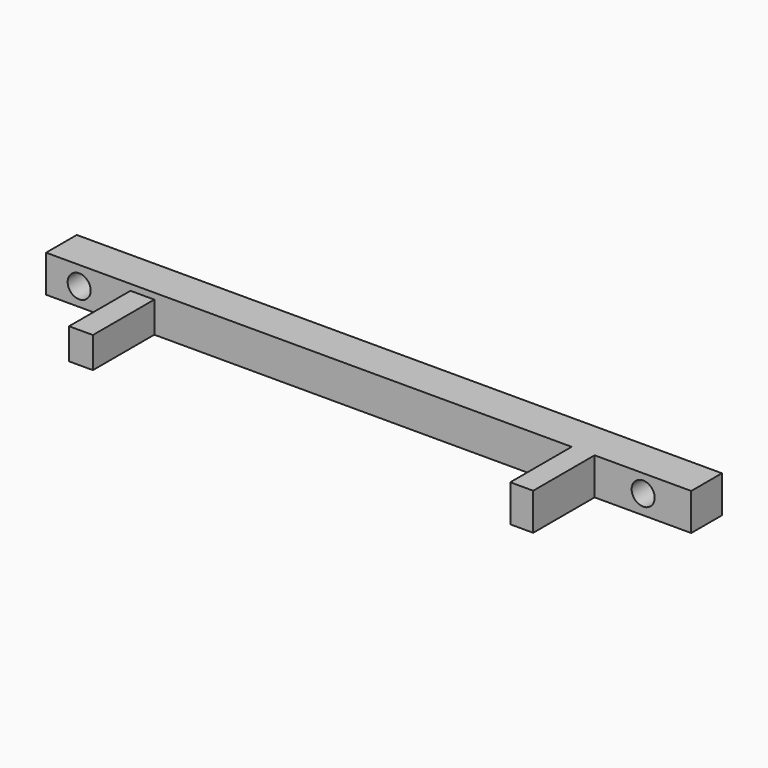
from build123d import *

# Parameters (mm, degrees)
F0_W      = 213.4951800108
F0_H      = 12.2640058398
F1_DEPTH  = 12.7
F3_D      = 7.62
F5_D      = 7.62
F6_W      = 7.8961476684
F6_H      = 5.2659846842
F7_DEPTH  = 25.4
F8_W      = 7.5909867883
F8_H      = 12.2640058398
F9_DEPTH  = 25.4
F10_W     = 7.8961476684
F10_H     = 4.9674399197
F11_DEPTH = 25.4
F12_DEPTH = 12.7


with BuildPart() as f1:
    # F0 (on Front) → F1 (new body)
    with BuildSketch(Plane.XZ):
        with Locations((31.6951796412, 41.8346524239)):
            Rectangle(F0_W, F0_H)
    extrude(amount=F1_DEPTH)

    # F3 (through all)
    with Locations(Plane.XZ.offset(12.7)):
        with Locations((-64.0981197357, 41.7276620865)):
            Hole(F3_D / 2)

    # F5 (through all)
    with Locations(Plane.XZ.offset(12.7)):
        with Locations((122.5372925401, 42.0484915376)):
            Hole(F5_D / 2)

    # F6 (on Front) → F7 (join)
    with BuildSketch(Plane.XZ):
        with Locations((-43.1862734258, 43.3030817658)):
            Rectangle(F6_W, F6_H)
    extrude(amount=F7_DEPTH)

    # F8 (on face) → F9 (join)
    with BuildSketch(Plane.XZ.offset(12.7)):
        with Locations((102.6745773852, 41.8346524239)):
            Rectangle(F8_W, F8_H)
    extrude(amount=F9_DEPTH)

    # F10 (on face) → F11 (join)
    with BuildSketch(Plane.XZ.offset(12.7)):
        with Locations((-43.1862734258, 38.1863694638)):
            Rectangle(F10_W, F10_H)
    extrude(amount=F11_DEPTH)

    # F12 (add): a face of the model
    f12_faces = [f1.faces().sort_by_distance(p)[0] for p in [
        (-43.1862734258, -25.4, 43.3030817658),
    ]]
    extrude(f12_faces, amount=F12_DEPTH)


solid = f1.part
